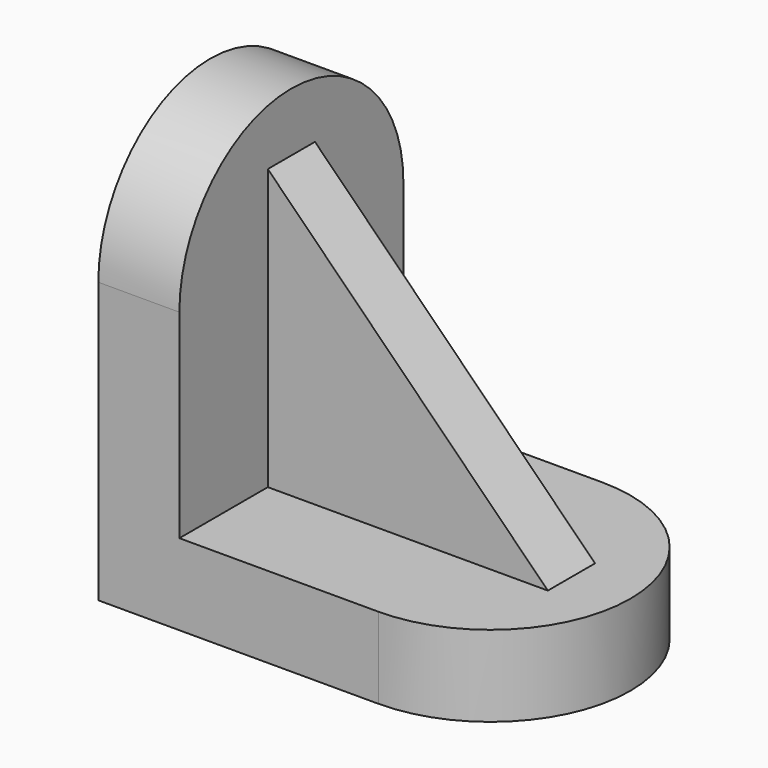
from build123d import *

# Parameters (mm, degrees)
F1_DEPTH = 38
F3_DEPTH = 11
F5_DEPTH = 11
F6_W     = 8
F6_H     = 38
F7_DEPTH = 38
F9_DEPTH = 25


with BuildPart() as f1:
    # F0 (on Front) → F1 (new body)
    with BuildSketch(Plane.XZ):
        Polygon((0, 38), (0, 0), (38, 0), (38, 11), (11, 11), (11, 38), align=None)
    extrude(amount=F1_DEPTH)

    # F2 (on face) → F3 (join)
    with BuildSketch(Plane(origin=(0, 0, 0), x_dir=(0, -1, 0), z_dir=(-1, 0, 0))):
        with BuildLine():
            Line((0, 38), (38, 38))
            ThreePointArc((38, 38), (19, 57), (0, 38))
        make_face()
    extrude(amount=-F3_DEPTH)

    # F4 (on face) → F5 (join)
    with BuildSketch(Plane(origin=(0, 0, 0), x_dir=(1, 0, 0), z_dir=(0, 0, -1))):
        with BuildLine():
            Line((38, 38), (38, 0))
            ThreePointArc((38, 0), (57, 19), (38, 38))
        make_face()
    extrude(amount=-F5_DEPTH)

    # F6 (on face) → F7 (join)
    with BuildSketch(Plane.YZ.offset(11)):
        with Locations((-19, 30)):
            Rectangle(F6_W, F6_H)
    extrude(amount=F7_DEPTH)

    # F8 (on face) → F9 (cut)
    with BuildSketch(Plane.XZ.offset(23)):
        Polygon((11, 49), (49, 11), (49, 49), align=None)
    extrude(amount=-F9_DEPTH, mode=Mode.SUBTRACT)


solid = f1.part
